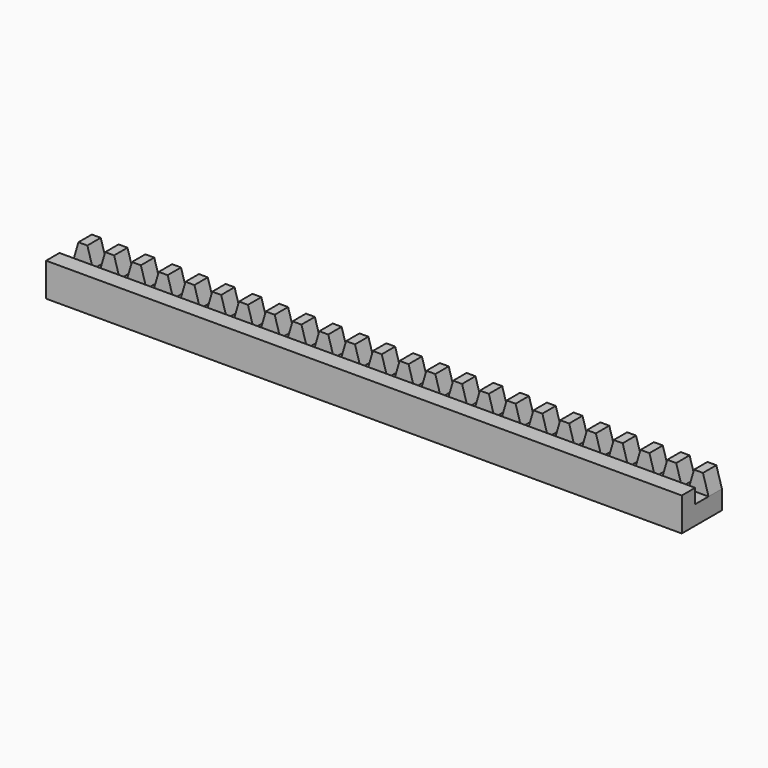
from build123d import *

# Parameters (mm, degrees)
F1_DEPTH = 3.81
F4_DEPTH = 144.78
F5_SCALE = 0.5


with BuildPart() as f1:
    # F0 (on Front) → F1 (new body)
    with BuildSketch(Plane.XZ):
        Polygon((-37.1748663006, 21.2125933835), (-38.4448663006, 16.8945933835), (-33.8728663006, 16.8945933835), (-35.1428663006, 21.2125933835), align=None)
        Polygon((-33.8728663006, 16.8945933835), (-38.4448663006, 16.8945933835), (-38.4448663006, 12.5765933835), (106.3351336994, 12.5765933835), (106.3351336994, 16.8945933835), (101.7631336994, 16.8945933835), (100.2391336994, 16.8945933835), (95.6671336994, 16.8945933835), (94.1431336994, 16.8945933835), (89.5711336994, 16.8945933835), (88.0471336994, 16.8945933835), (83.4751336994, 16.8945933835), (81.9511336994, 16.8945933835), (77.3791336994, 16.8945933835), (75.8551336994, 16.8945933835), (71.2831336994, 16.8945933835), (69.7591336994, 16.8945933835), (65.1871336994, 16.8945933835), (63.6631336994, 16.8945933835), (59.0911336994, 16.8945933835), (57.5671336994, 16.8945933835), (52.9951336994, 16.8945933835), (51.4711336994, 16.8945933835), (46.8991336994, 16.8945933835), (45.3751336994, 16.8945933835), (40.8031336994, 16.8945933835), (39.2791336994, 16.8945933835), (34.7071336994, 16.8945933835), (33.1831336994, 16.8945933835), (28.6111336994, 16.8945933835), (27.0871336994, 16.8945933835), (22.5151336994, 16.8945933835), (20.9911336994, 16.8945933835), (16.4191336994, 16.8945933835), (14.8951336994, 16.8945933835), (10.3231336994, 16.8945933835), (8.7991336994, 16.8945933835), (4.2271336994, 16.8945933835), (2.7031336994, 16.8945933835), (-1.8688663006, 16.8945933835), (-3.3928663006, 16.8945933835), (-7.9648663006, 16.8945933835), (-9.4888663006, 16.8945933835), (-14.0608663006, 16.8945933835), (-15.5848663006, 16.8945933835), (-20.1568663006, 16.8945933835), (-21.6808663006, 16.8945933835), (-26.2528663006, 16.8945933835), (-27.7768663006, 16.8945933835), (-32.3488663006, 16.8945933835), align=None)
        Polygon((-31.0788663006, 21.2125933835), (-32.3488663006, 16.8945933835), (-27.7768663006, 16.8945933835), (-29.0468663006, 21.2125933835), align=None)
        Polygon((101.7631336994, 16.8945933835), (106.3351336994, 16.8945933835), (105.0651336994, 21.2125933835), (103.0331336994, 21.2125933835), align=None)
        Polygon((-24.9828663006, 21.2125933835), (-26.2528663006, 16.8945933835), (-21.6808663006, 16.8945933835), (-22.9508663006, 21.2125933835), align=None)
        Polygon((95.6671336994, 16.8945933835), (100.2391336994, 16.8945933835), (98.9691336994, 21.2125933835), (96.9371336994, 21.2125933835), align=None)
        Polygon((-18.8868663006, 21.2125933835), (-20.1568663006, 16.8945933835), (-15.5848663006, 16.8945933835), (-16.8548663006, 21.2125933835), align=None)
        Polygon((89.5711336994, 16.8945933835), (94.1431336994, 16.8945933835), (92.8731336994, 21.2125933835), (90.8411336994, 21.2125933835), align=None)
        Polygon((-12.7908663006, 21.2125933835), (-14.0608663006, 16.8945933835), (-9.4888663006, 16.8945933835), (-10.7588663006, 21.2125933835), align=None)
        Polygon((83.4751336994, 16.8945933835), (88.0471336994, 16.8945933835), (86.7771336994, 21.2125933835), (84.7451336994, 21.2125933835), align=None)
        Polygon((-6.6948663006, 21.2125933835), (-7.9648663006, 16.8945933835), (-3.3928663006, 16.8945933835), (-4.6628663006, 21.2125933835), align=None)
        Polygon((77.3791336994, 16.8945933835), (81.9511336994, 16.8945933835), (80.6811336994, 21.2125933835), (78.6491336994, 21.2125933835), align=None)
        Polygon((-0.5988663006, 21.2125933835), (-1.8688663006, 16.8945933835), (2.7031336994, 16.8945933835), (1.4331336994, 21.2125933835), align=None)
        Polygon((71.2831336994, 16.8945933835), (75.8551336994, 16.8945933835), (74.5851336994, 21.2125933835), (72.5531336994, 21.2125933835), align=None)
        Polygon((5.4971336994, 21.2125933835), (4.2271336994, 16.8945933835), (8.7991336994, 16.8945933835), (7.5291336994, 21.2125933835), align=None)
        Polygon((65.1871336994, 16.8945933835), (69.7591336994, 16.8945933835), (68.4891336994, 21.2125933835), (66.4571336994, 21.2125933835), align=None)
        Polygon((11.5931336994, 21.2125933835), (10.3231336994, 16.8945933835), (14.8951336994, 16.8945933835), (13.6251336994, 21.2125933835), align=None)
        Polygon((59.0911336994, 16.8945933835), (63.6631336994, 16.8945933835), (62.3931336994, 21.2125933835), (60.3611336994, 21.2125933835), align=None)
        Polygon((17.6891336994, 21.2125933835), (16.4191336994, 16.8945933835), (20.9911336994, 16.8945933835), (19.7211336994, 21.2125933835), align=None)
        Polygon((52.9951336994, 16.8945933835), (57.5671336994, 16.8945933835), (56.2971336994, 21.2125933835), (54.2651336994, 21.2125933835), align=None)
        Polygon((23.7851336994, 21.2125933835), (22.5151336994, 16.8945933835), (27.0871336994, 16.8945933835), (25.8171336994, 21.2125933835), align=None)
        Polygon((46.8991336994, 16.8945933835), (51.4711336994, 16.8945933835), (50.2011336994, 21.2125933835), (48.1691336994, 21.2125933835), align=None)
        Polygon((29.8811336994, 21.2125933835), (28.6111336994, 16.8945933835), (33.1831336994, 16.8945933835), (31.9131336994, 21.2125933835), align=None)
        Polygon((40.8031336994, 16.8945933835), (45.3751336994, 16.8945933835), (44.1051336994, 21.2125933835), (42.0731336994, 21.2125933835), align=None)
        Polygon((35.9771336994, 21.2125933835), (34.7071336994, 16.8945933835), (39.2791336994, 16.8945933835), (38.0091336994, 21.2125933835), align=None)
    extrude(amount=F1_DEPTH)

    # F3 (on plane+point) → F4 (join, through all)
    with BuildSketch(Plane.YZ.offset(106.3351336994)):
        Polygon((-11.43, 20.1965933835), (-11.43, 16.3865933835), (-11.43, 12.5765933835), (-3.81, 12.5765933835), (-3.81, 16.8945933835), (-7.62, 16.8945933835), (-7.62, 20.1965933835), align=None)
    extrude(amount=-F4_DEPTH)


with BuildPart() as f1_1:
    # F5: moved
    add(f1.part.scale(F5_SCALE).moved(Location((-19.2224331503, 0, 6.2882966917))))


solid = f1_1.part
